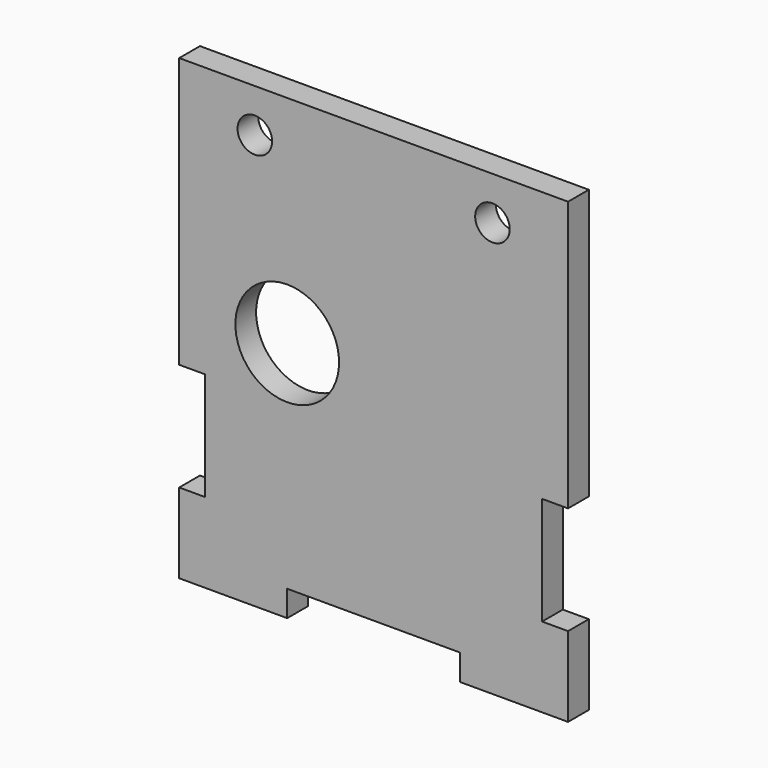
from build123d import *

# Parameters (mm, degrees)
F0_R     = 4
F1_DEPTH = 6
F2_R     = 12
F2_W     = 6
F2_H     = 25
F3_DEPTH = 25


with BuildPart() as f1:
    # F0 (on Front) → F1 (new body)
    with BuildSketch(Plane.XZ):
        Polygon((57.664498, 89.380176), (-32.335502, 89.380176), (-32.335502, -10.619824), (-32.335502, -16.619824), (-7.335502, -16.619824), (-7.335502, -10.619824), (32.664498, -10.619824), (32.664498, -16.619824), (57.664498, -16.619824), (57.664498, -10.619824), align=None)
        with Locations((-14.835502, 79.380176)):
            Circle(F0_R, mode=Mode.SUBTRACT)
        with Locations((40.164498, 79.380176)):
            Circle(F0_R, mode=Mode.SUBTRACT)
    extrude(amount=F1_DEPTH)

    # F2 (on face) → F3 (cut)
    with BuildSketch(Plane.XZ.offset(6)):
        with Locations((-7.335502, 39.380176)):
            Circle(F2_R)
        with Locations((-29.335502, 14.380176)):
            Rectangle(F2_W, F2_H)
        with Locations((54.664498, 14.380176)):
            Rectangle(F2_W, F2_H)
    extrude(amount=-F3_DEPTH, mode=Mode.SUBTRACT)


solid = f1.part
